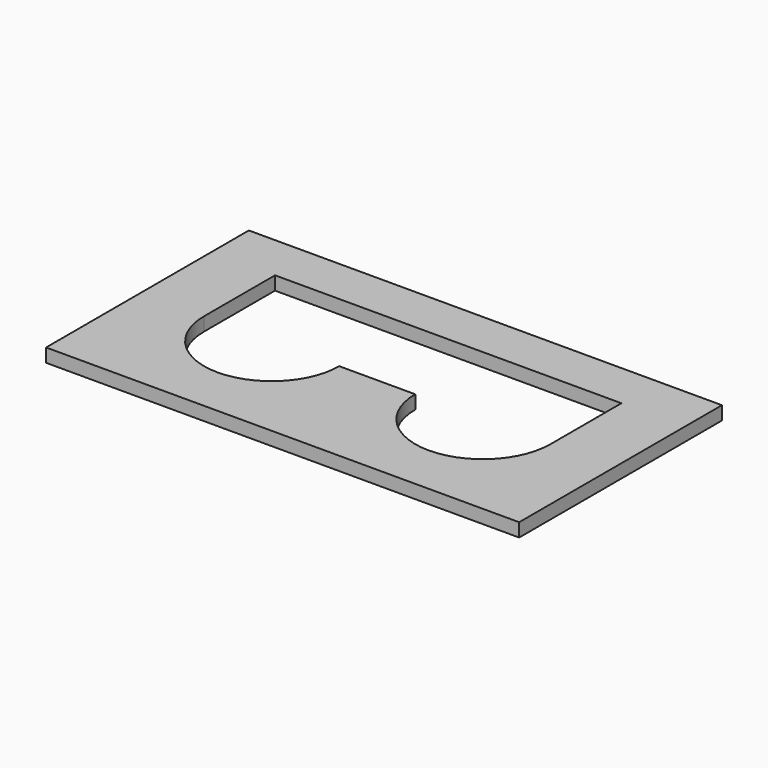
from build123d import *

# Parameters (mm, degrees)
F1_DEPTH = 1.7
F3_DEPTH = 1.6


with BuildPart() as f1:
    # F0 (on Top) → F1 (new body)
    with BuildSketch(Plane.XY):
        with BuildLine():
            Line((-4.5, -16), (4.5, -16))
            ThreePointArc((4.5, -16), (12.5, -24), (20.5, -16))
            Line((20.5, -16), (20.5, -5.5))
            Line((20.5, -5.5), (-20.5, -5.5))
            Line((-20.5, -5.5), (-20.5, -16))
            ThreePointArc((-20.5, -16), (-12.5, -24), (-4.5, -16))
        make_face()
    extrude(amount=F1_DEPTH)


with BuildPart() as f3:
    # F2 (on Top) → F3 (new body)
    with BuildSketch(Plane.XY):
        Polygon((28, 0), (0, 0), (-28, 0), (-28, -30), (28, -30), align=None)
    extrude(amount=F3_DEPTH)

    # F4: cut F1
    add(f1.part, mode=Mode.SUBTRACT)


solid = f3.part
